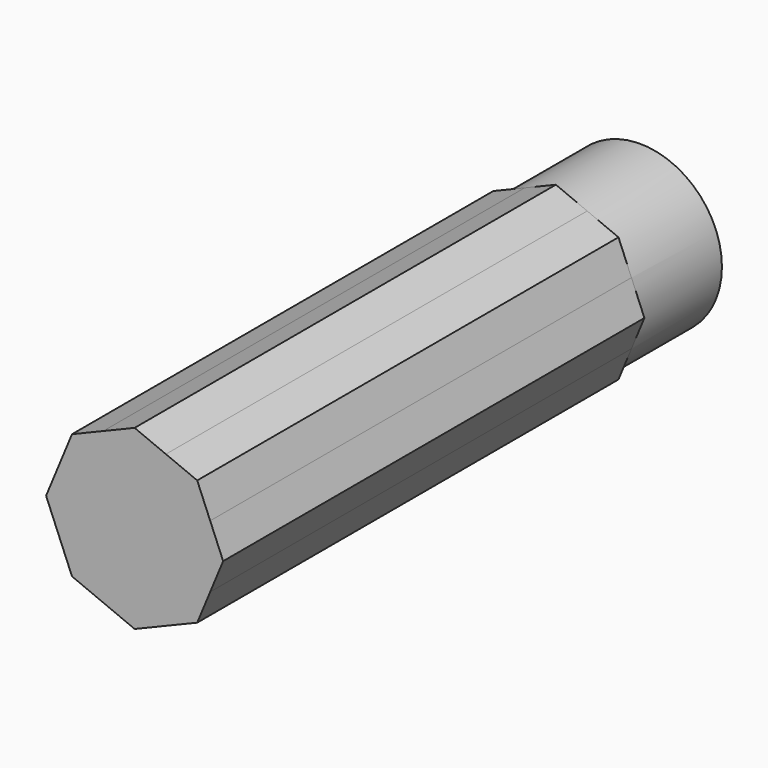
from build123d import *

# Parameters (mm, degrees)
F0_R     = 39.453955
F1_DEPTH = 25.4
F3_DEPTH = 254


with BuildPart() as f1:
    # F0 (on Front) → F1 (new body, symmetric)
    with BuildSketch(Plane.XZ):
        Circle(F0_R)
    extrude(amount=F1_DEPTH, both=True)

    # F2 (on face) → F3 (join)
    with BuildSketch(Plane.XZ.offset(25.4)):
        with BuildLine():
            Line((15.098375, -36.450701), (30.19675, -30.19675))
            Line((30.19675, -30.19675), (36.450701, -15.098375))
            ThreePointArc((36.450701, -15.098375), (27.898159, -27.898159), (15.098375, -36.450701))
        make_face()
        with BuildLine():
            Line((0, -42.704653), (15.098375, -36.450701))
            ThreePointArc((15.098375, -36.450701), (0, -39.453955), (-15.098374, -36.450701))
            Line((-15.098374, -36.450701), (0, -42.704653))
        make_face()
        with BuildLine():
            Line((-30.19675, -30.19675), (-15.098374, -36.450701))
            ThreePointArc((-15.098374, -36.450701), (-27.898159, -27.898159), (-36.450701, -15.098375))
            Line((-36.450701, -15.098375), (-30.19675, -30.19675))
        make_face()
        with BuildLine():
            Line((-42.704653, 0), (-36.450701, -15.098375))
            ThreePointArc((-36.450701, -15.098375), (-39.453955, 0), (-36.450701, 15.098375))
            Line((-36.450701, 15.098375), (-42.704653, 0))
        make_face()
        with BuildLine():
            ThreePointArc((-15.098374, 36.450701), (0, 39.453955), (15.098374, 36.450701))
            Line((15.098374, 36.450701), (0, 42.704653))
            Line((0, 42.704653), (-15.098374, 36.450701))
        make_face()
        with BuildLine():
            ThreePointArc((15.098374, 36.450701), (27.898158, 27.898159), (36.450701, 15.098375))
            Line((36.450701, 15.098375), (30.19675, 30.19675))
            Line((30.19675, 30.19675), (15.098374, 36.450701))
        make_face()
        with BuildLine():
            ThreePointArc((39.453955, 0), (38.695858, -7.697085), (36.450701, -15.098375))
            Line((36.450701, -15.098375), (42.704653, 0))
            Line((42.704653, 0), (36.450701, 15.098375))
            ThreePointArc((36.450701, 15.098375), (38.695858, 7.697085), (39.453955, 0))
        make_face()
        with BuildLine():
            ThreePointArc((-15.098374, -36.450701), (0, -39.453955), (15.098375, -36.450701))
            ThreePointArc((15.098375, -36.450701), (27.898159, -27.898159), (36.450701, -15.098375))
            ThreePointArc((36.450701, -15.098375), (38.695858, -7.697085), (39.453955, 0))
            ThreePointArc((39.453955, 0), (38.695858, 7.697085), (36.450701, 15.098375))
            ThreePointArc((36.450701, 15.098375), (27.898158, 27.898159), (15.098374, 36.450701))
            ThreePointArc((15.098374, 36.450701), (0, 39.453955), (-15.098374, 36.450701))
            ThreePointArc((-15.098374, 36.450701), (-27.898159, 27.898159), (-36.450701, 15.098375))
            ThreePointArc((-36.450701, 15.098375), (-39.453955, 0), (-36.450701, -15.098375))
            ThreePointArc((-36.450701, -15.098375), (-27.898159, -27.898159), (-15.098374, -36.450701))
        make_face()
        with BuildLine():
            Line((-30.19675, 30.19675), (-36.450701, 15.098375))
            ThreePointArc((-36.450701, 15.098375), (-27.898159, 27.898159), (-15.098374, 36.450701))
            Line((-15.098374, 36.450701), (-30.19675, 30.19675))
        make_face()
    extrude(amount=F3_DEPTH)


solid = f1.part
